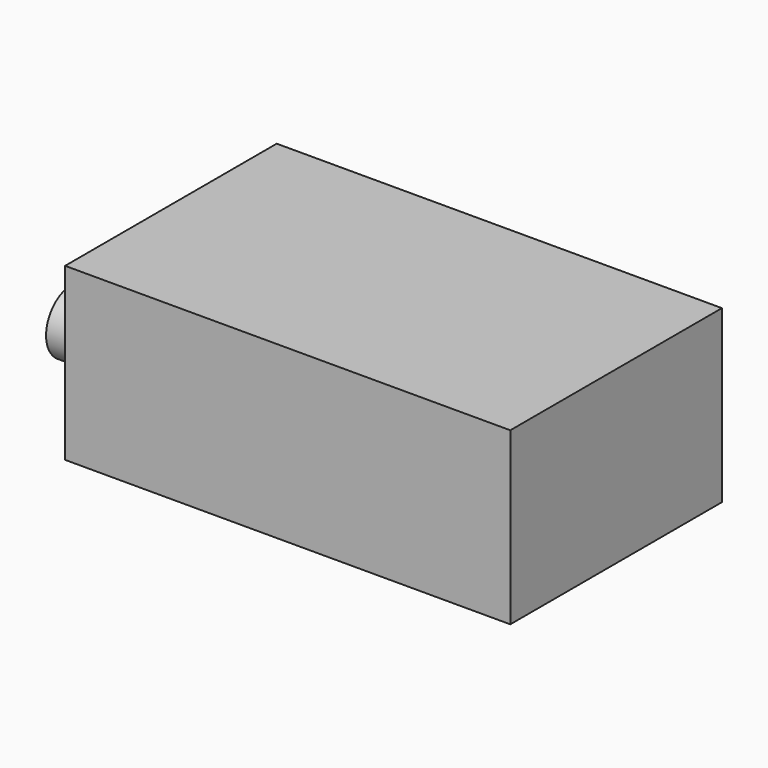
from build123d import *

# Parameters (mm, degrees)
F0_W     = 43.815
F0_H     = 26.035
F1_DEPTH = 16.8148
F2_R     = 3.705964
F2_R_2   = 3.106605
F3_DEPTH = 3.9878


with BuildPart() as f1:
    # F0 (on Top) → F1 (new body)
    with BuildSketch(Plane.XY):
        with Locations((25.243697, -26.637709)):
            Rectangle(F0_W, F0_H)
    extrude(amount=F1_DEPTH)

    # F2 (on face) → F3 (join)
    with BuildSketch(Plane(origin=(3.336197, 0, 0), x_dir=(0, -1, 0), z_dir=(-1, 0, 0))):
        with Locations((19.954069, 8.4074)):
            Circle(F2_R)
        with Locations((33.902541, 8.4074)):
            Circle(F2_R_2)
    extrude(amount=F3_DEPTH)


solid = f1.part
